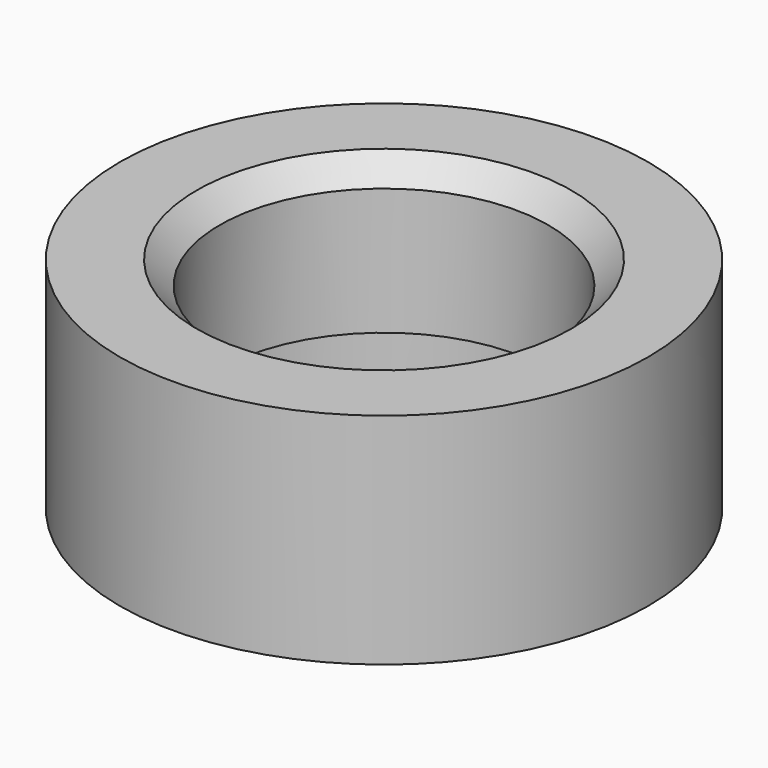
from build123d import *

# Parameters (mm, degrees)
SKETCH_R        = 11.45
SKETCH_R_2      = 8.45
PAD_DEPTH       = 3
SKETCH001_R     = 11.45
SKETCH001_R_2   = 7.125
PAD001_DEPTH    = 6.5
CHAMFER_SIZE    = 0.7
CHAMFER001_SIZE = 1


with BuildPart() as part:
    # Sketch → Pad (new body)
    with BuildSketch(Plane.XY):
        Circle(SKETCH_R)
        Circle(SKETCH_R_2, mode=Mode.SUBTRACT)
    extrude(amount=PAD_DEPTH)

    # Sketch001 (on Face4 of Pad) → Pad001 (join)
    with BuildSketch(Plane.XY.offset(3)):
        Circle(SKETCH001_R)
        Circle(SKETCH001_R_2, mode=Mode.SUBTRACT)
    extrude(amount=PAD001_DEPTH)

    # Chamfer
    chamfer_edges = [part.edges().sort_by_distance(p)[0] for p in [
        (-8.45, 0, 0),
    ]]
    chamfer(chamfer_edges, length=CHAMFER_SIZE)

    # Chamfer001
    chamfer001_edges = [part.edges().sort_by_distance(p)[0] for p in [
        (-7.125, 0, 9.5),
    ]]
    chamfer(chamfer001_edges, length=CHAMFER001_SIZE)


solid = part.part
